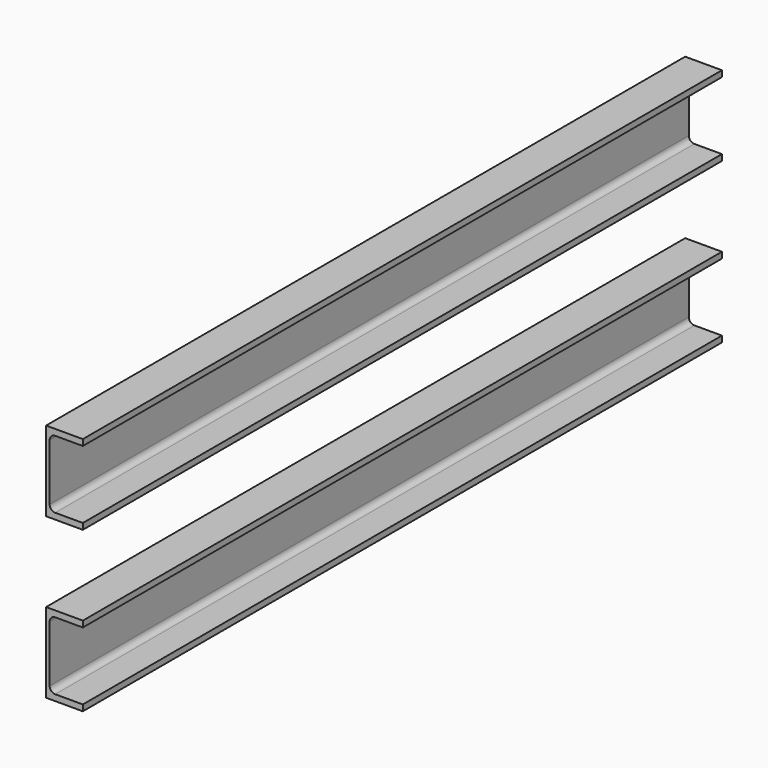
from build123d import *

# Parameters (mm, degrees)
F1_DEPTH = 1000


with BuildPart() as f1:
    # F0 (on Front) → F1 (new body)
    with BuildSketch(Plane.XZ):
        with BuildLine():
            Line((42.189906, -50), (-3.810094, -50))
            Line((-3.810094, -50), (-3.810094, -150))
            Line((-3.810094, -150), (42.189906, -150))
            Line((42.189906, -150), (42.189906, -142.4))
            Line((42.189906, -142.4), (7.689906, -142.4))
            ThreePointArc((7.689906, -142.4), (2.740159, -140.349747), (0.689906, -135.4))
            Line((0.689906, -135.4), (0.689906, -64.6))
            ThreePointArc((0.689906, -64.6), (2.740159, -59.650253), (7.689906, -57.6))
            Line((7.689906, -57.6), (42.189906, -57.6))
            Line((42.189906, -57.6), (42.189906, -50))
        make_face()
        with BuildLine():
            Line((0.689906, 64.6), (0.689906, 135.4))
            ThreePointArc((0.689906, 135.4), (2.740159, 140.349747), (7.689906, 142.4))
            Line((7.689906, 142.4), (42.189906, 142.4))
            Line((42.189906, 142.4), (42.189906, 150))
            Line((42.189906, 150), (-3.810094, 150))
            Line((-3.810094, 150), (-3.810094, 50))
            Line((-3.810094, 50), (42.189906, 50))
            Line((42.189906, 50), (42.189906, 57.6))
            Line((42.189906, 57.6), (7.689906, 57.6))
            ThreePointArc((7.689906, 57.6), (2.740159, 59.650253), (0.689906, 64.6))
        make_face()
        with BuildLine():
            Line((42.189906, -50), (-3.810094, -50))
            Line((-3.810094, -50), (-3.810094, -150))
            Line((-3.810094, -150), (42.189906, -150))
            Line((42.189906, -150), (42.189906, -142.4))
            Line((42.189906, -142.4), (7.689906, -142.4))
            ThreePointArc((7.689906, -142.4), (2.740159, -140.349747), (0.689906, -135.4))
            Line((0.689906, -135.4), (0.689906, -64.6))
            ThreePointArc((0.689906, -64.6), (2.740159, -59.650253), (7.689906, -57.6))
            Line((7.689906, -57.6), (42.189906, -57.6))
            Line((42.189906, -57.6), (42.189906, -50))
        make_face()
    extrude(amount=F1_DEPTH)


solid = f1.part
